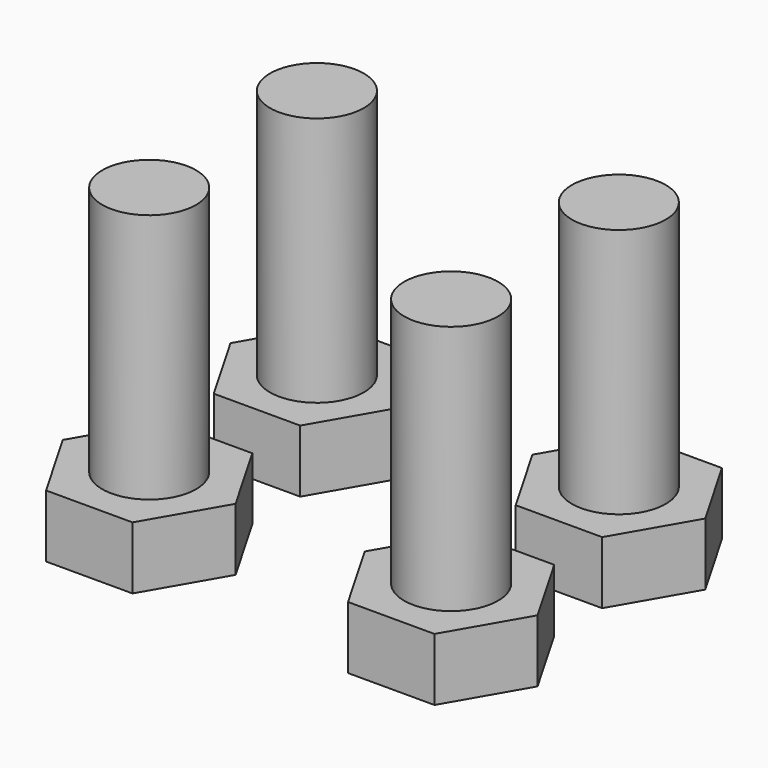
from build123d import *

# Parameters (mm, degrees)
F1_DEPTH = 4
F2_R     = 3
F3_DEPTH = 16


with BuildPart() as f1:
    # F0 (on Top) → F1 (new body)
    with BuildSketch(Plane.XY):
        Polygon((-6.888178, 4.78479), (-12.413178, 4.78479), (-15.175678, 0), (-12.413178, -4.78479), (-6.888178, -4.78479), (-4.125678, 0), align=None)
    extrude(amount=F1_DEPTH)

    # F2 (on face) → F3 (join)
    with BuildSketch(Plane.XY.offset(4)):
        with Locations((-9.650678, 0)):
            Circle(F2_R)
    extrude(amount=F3_DEPTH)


with BuildPart() as f4_1:
    # F4: instance of F1
    add(f1.part.mirror(Plane.YZ))


with BuildPart() as f6_1:
    # F6: instance of F1
    add(f1.part.mirror(Plane.XZ.offset(6.7)))


with BuildPart() as f6_2:
    # F6: instance of F4_1
    add(f4_1.part.mirror(Plane.XZ.offset(6.7)))


solid = Compound([f1.part, f4_1.part, f6_1.part, f6_2.part])
